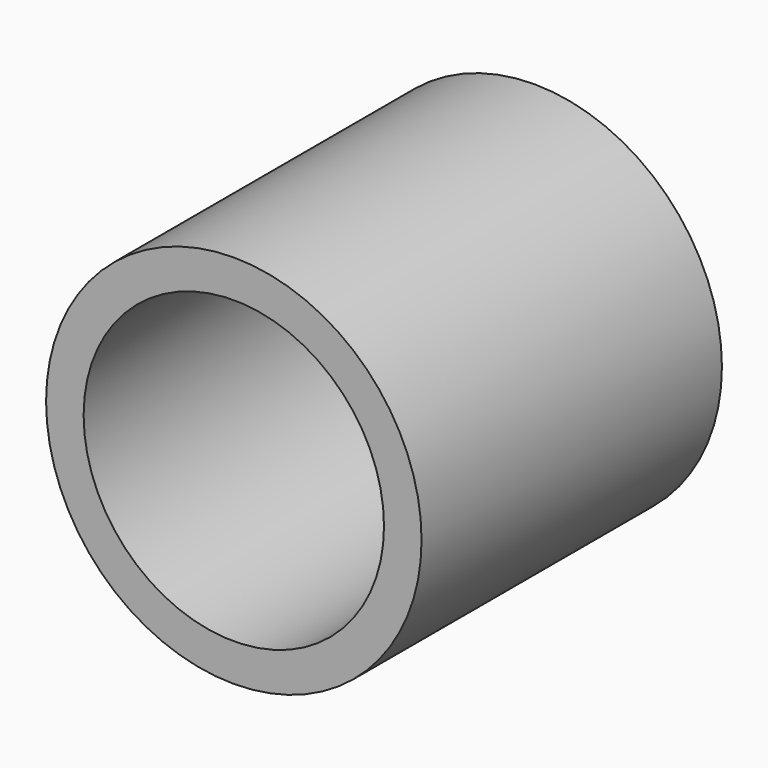
from build123d import *

# Parameters (mm, degrees)
F0_R   = 6.35
F0_R_2 = 5.08


with BuildPart() as f2:
    # F2: sweep along a path in F1
    with BuildLine(Plane.YZ) as f2_path:
        Line((0, 0), (12.7, 0))
    # F0 (on Front) → F2 (sweep)
    with BuildSketch(Plane.XZ):
        Circle(F0_R)
        Circle(F0_R_2, mode=Mode.SUBTRACT)
    sweep(path=f2_path.line)


solid = f2.part
